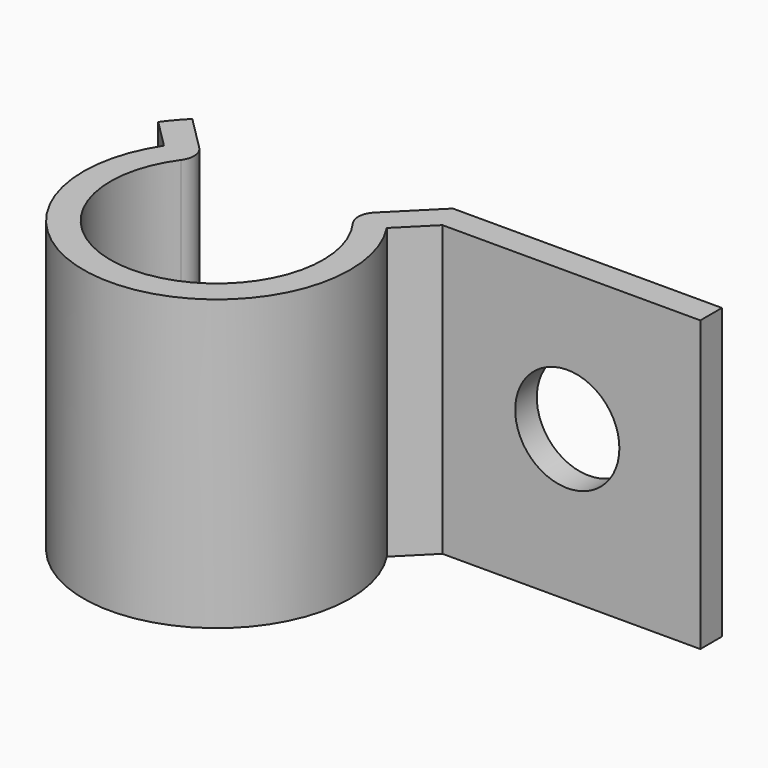
from build123d import *

# Parameters (mm, degrees)
F1_DEPTH = 19.05
F2_R     = 3.429
F3_DEPTH = 25.4


with BuildPart() as f1:
    # F0 (on Top) → F1 (new body)
    with BuildSketch(Plane.XY):
        with BuildLine():
            ThreePointArc((5.651153, 4.130916), (0, -7), (-5.651153, 4.130916))
            ThreePointArc((-5.651153, 4.130916), (-5.410205, 4.978188), (-5.778408, 5.778408))
            Line((-5.778408, 5.778408), (-8.056046, 8.056046))
            ThreePointArc((-8.056046, 8.056046), (-8.661884, 7.400779), (-9.214575, 6.700103))
            Line((-9.214575, 6.700103), (-7.335558, 4.821086))
            ThreePointArc((-7.335558, 4.821086), (0, -8.778), (7.335558, 4.821086))
            Line((7.335558, 4.821086), (9.370701, 6.85623))
            Line((9.370701, 6.85623), (26.346214, 6.85623))
            Line((26.346214, 6.85623), (26.346214, 8.63423))
            Line((26.346214, 8.63423), (8.63423, 8.63423))
            Line((8.63423, 8.63423), (5.778408, 5.778408))
            ThreePointArc((5.778408, 5.778408), (5.410205, 4.978188), (5.651153, 4.130916))
        make_face()
    extrude(amount=F1_DEPTH)

    # F2 (on face) → F3 (cut)
    with BuildSketch(Plane.XZ.offset(-6.85623)):
        with Locations((17.588841, 9.905968)):
            Circle(F2_R)
    extrude(amount=-F3_DEPTH, mode=Mode.SUBTRACT)


solid = f1.part
